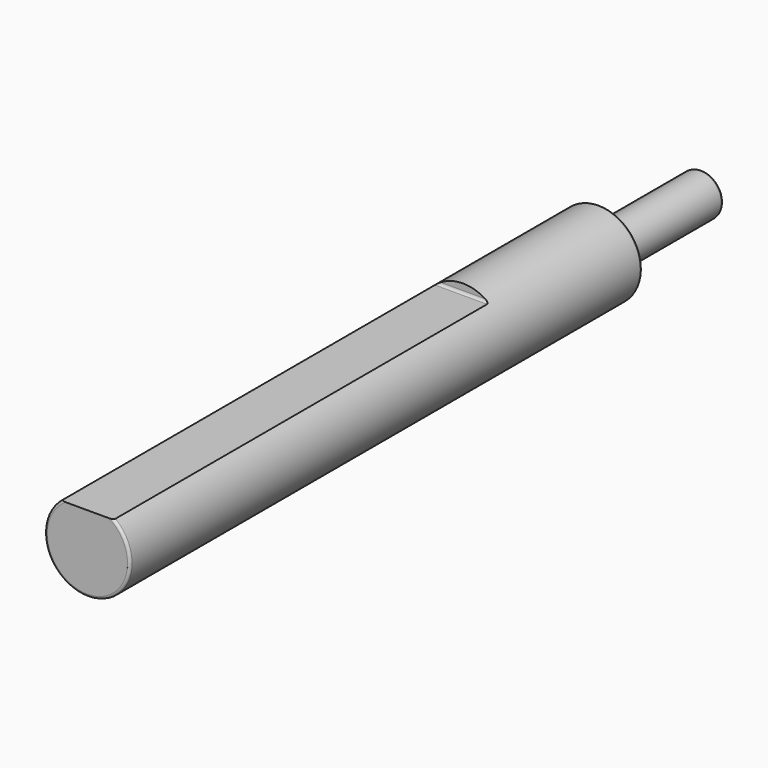
from build123d import *

# Parameters (mm, degrees)
F3_DEPTH = 69.85
F4_R     = 0.381
F5_R     = 0.381
F6_R     = 0.381


with BuildPart() as f1:
    # F0 (on Right) → F1 (revolve)
    with BuildSketch(Plane.YZ):
        Polygon((74.4140613498, 0), (74.4140613498, 3.175), (55.3640613498, 3.175), (55.3640613498, 6.35), (-39.8859386502, 6.35), (-39.8859386502, 0), align=None)
    revolve(axis=Axis((0, 17.2640613498, 0), (0, 1, 0)))

    # F2 (on face) → F3 (cut)
    with BuildSketch(Plane.XZ.offset(39.8859386502)):
        with BuildLine():
            ThreePointArc((3.8766764739, 5.0293020904), (0, 6.35), (-3.8766764739, 5.0293020904))
            Line((-3.8766764739, 5.0293020904), (3.8766764739, 5.0293020904))
        make_face()
    extrude(amount=-F3_DEPTH, mode=Mode.SUBTRACT)

    # F4
    f4_edges = [f1.edges().sort_by_distance(p)[0] for p in [
        (0, 55.364061, -6.35),
        (0, 74.414061, -3.175),
        (0, 55.364061, -3.175),
        (0, 64.889061, 3.175),
    ]]
    fillet(f4_edges, radius=F4_R)

    # F5
    f5_edges = [f1.edges().sort_by_distance(p)[0] for p in [
        (0, -39.885939, -6.35),
    ]]
    fillet(f5_edges, radius=F5_R)

    # F6
    f6_edges = [f1.edges().sort_by_distance(p)[0] for p in [
        (0, 29.964061, 5.029302),
    ]]
    fillet(f6_edges, radius=F6_R)


solid = f1.part
